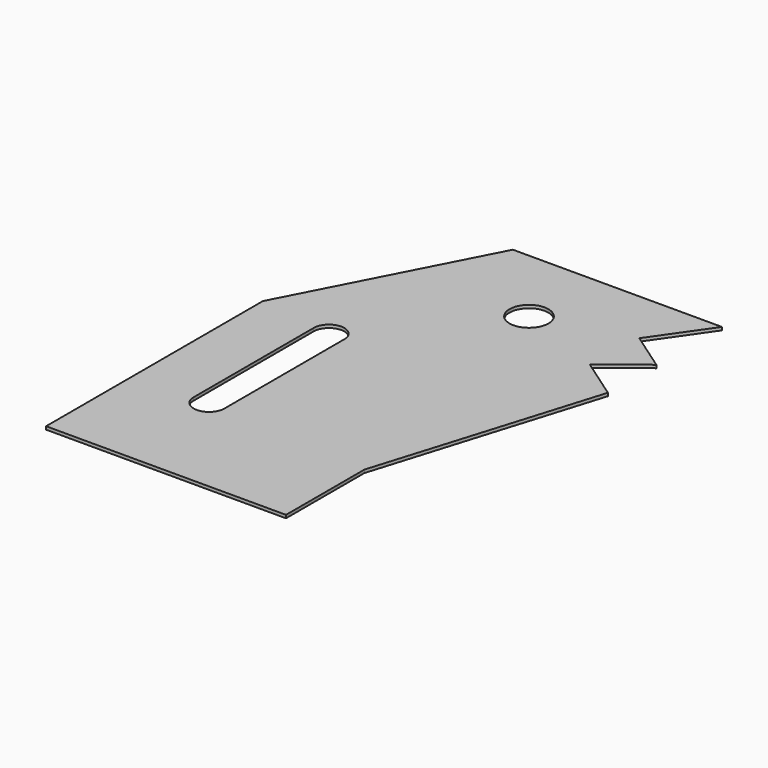
from build123d import *

# Parameters (mm, degrees)
F1_DEPTH = 1
F2_R     = 6.322095
F3_DEPTH = 25


with BuildPart() as f1:
    # F0 (on Top) → F1 (new body)
    with BuildSketch(Plane.XY):
        Polygon((50, 75), (-18.058607, 75), (-50, 13.215269), (-50, -75), (28.098688, -75), (28.098688, -43.112274), (50, 28.602385), (36.704283, 37.858568), (50, 48.314037), (37.486609, 57.025582), align=None)
    extrude(amount=F1_DEPTH)

    # F2 (on face) → F3 (cut)
    with BuildSketch(Plane.XY.offset(1)):
        with Locations((8.059037, 48.924173)):
            Circle(F2_R)
        with BuildLine():
            Line((-20.704884, 10.188761), (-20.704444, 9.23894))
            ThreePointArc((-20.704444, 9.23894), (-20.682059, 9.713861), (-20.704884, 10.188761))
        make_face()
        with BuildLine():
            Line((-20.682059, -39.073944), (-20.704444, 9.23894))
            Line((-20.704444, 9.23894), (-20.704884, 10.188761))
            ThreePointArc((-20.704884, 10.188761), (-25.920939, 14.705834), (-30.682058, 9.711544))
            Line((-30.682058, 9.711544), (-30.682058, -39.076261))
            ThreePointArc((-30.682058, -39.076261), (-25.6809, -44.076261), (-20.682059, -39.073944))
        make_face()
    extrude(amount=-F3_DEPTH, mode=Mode.SUBTRACT)


solid = f1.part
